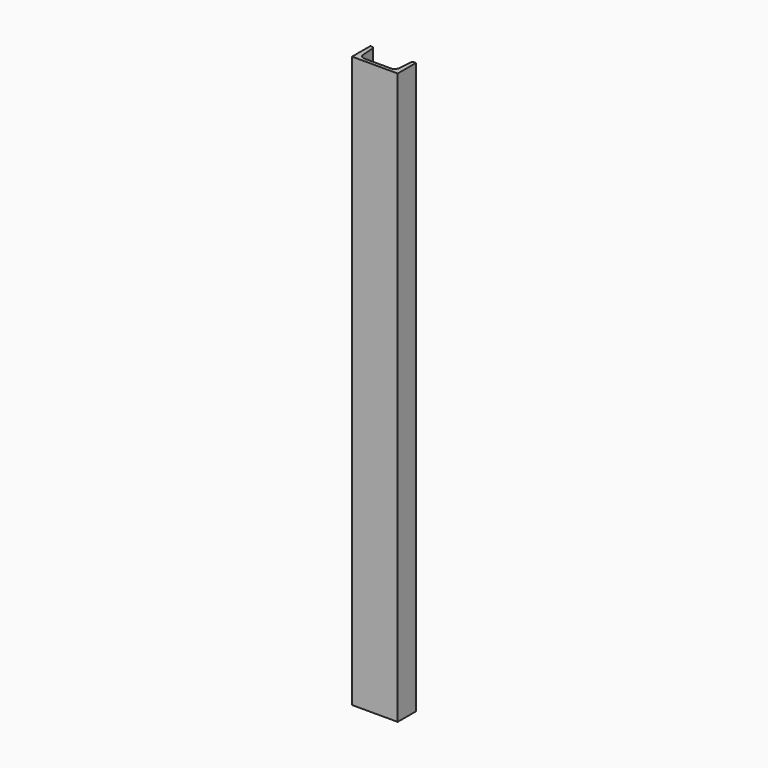
from build123d import *

# Parameters (mm, degrees)
F1_DEPTH = 1000
F2_R     = 4
F3_R     = 8


with BuildPart() as f1:
    # F0 (on Top) → F1 (new body)
    with BuildSketch(Plane.XY):
        Polygon((-40, 20), (-40, -20), (40, -20), (40, 20), (33.600028, 20), (30.879981, -14), (-30.879981, -14), (-33.600028, 20), align=None)
    extrude(amount=-F1_DEPTH)

    # F2
    f2_edges = [f1.edges().sort_by_distance(p)[0] for p in [
        (-33.600028, 20, -500),
        (33.600028, 20, -500),
    ]]
    fillet(f2_edges, radius=F2_R)

    # F3
    f3_edges = [f1.edges().sort_by_distance(p)[0] for p in [
        (-30.879981, -14, -500),
        (30.879981, -14, -500),
    ]]
    fillet(f3_edges, radius=F3_R)


solid = f1.part
